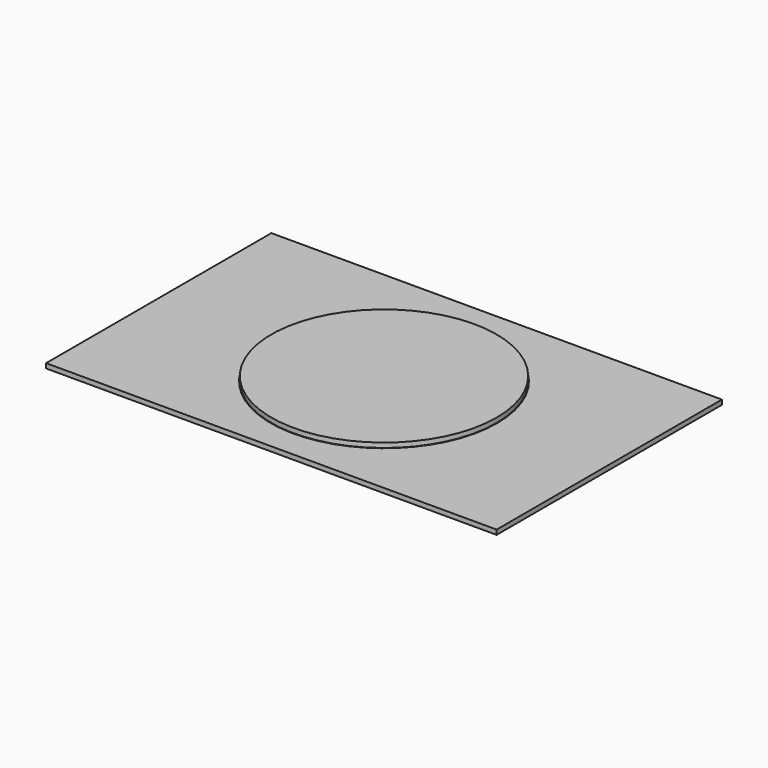
from build123d import *

# Parameters (mm, degrees)
F0_W     = 2438.4
F0_H     = 1524
F0_R     = 612.775
F1_DEPTH = 25.4
F2_R     = 609.6
F3_DEPTH = 25.4


with BuildPart() as f1:
    # F0 (on Top) → F1 (new body)
    with BuildSketch(Plane.XY):
        Rectangle(F0_W, F0_H)
        Circle(F0_R, mode=Mode.SUBTRACT)
    extrude(amount=F1_DEPTH)


with BuildPart() as f3:
    # F2 (on face) → F3 (new body)
    with BuildSketch(Plane.XY.offset(25.4)):
        Circle(F2_R)
    extrude(amount=F3_DEPTH)


solid = Compound([f1.part, f3.part])
